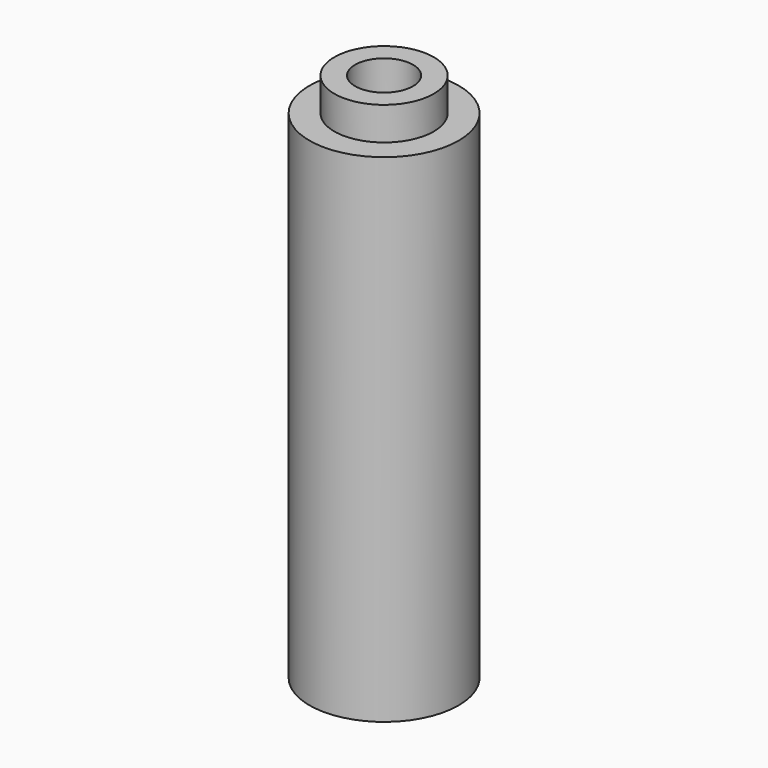
from build123d import *

# Parameters (mm, degrees)
F0_R     = 4.5
F0_R_2   = 3.6
F1_DEPTH = 30
F0_R_3   = 3
F0_R_4   = 1.75
F2_DEPTH = 3
F3_DEPTH = 2


with BuildPart() as f1:
    # F0 (on Top) → F1 (new body)
    with BuildSketch(Plane.XY):
        Circle(F0_R)
        Circle(F0_R_2, mode=Mode.SUBTRACT)
    extrude(amount=-F1_DEPTH)

    # F0 (on Top) → F2 (join)
    with BuildSketch(Plane.XY):
        Circle(F0_R_2)
        Circle(F0_R_3, mode=Mode.SUBTRACT)
        Circle(F0_R_3)
        Circle(F0_R_4, mode=Mode.SUBTRACT)
    extrude(amount=-F2_DEPTH)

    # F0 (on Top) → F3 (join)
    with BuildSketch(Plane.XY):
        Circle(F0_R_3)
        Circle(F0_R_4, mode=Mode.SUBTRACT)
    extrude(amount=F3_DEPTH)


solid = f1.part
